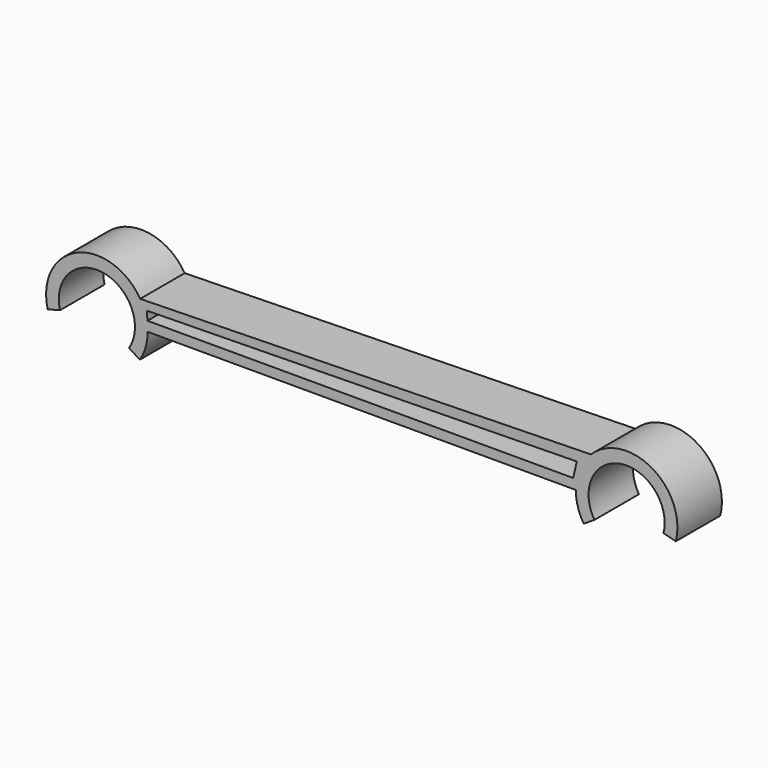
from build123d import *

# Parameters (mm, degrees)
F1_DEPTH = 1.9


with BuildPart() as f1:
    # F0 (on Front) → F1 (new body)
    with BuildSketch(Plane.XZ):
        with BuildLine():
            ThreePointArc((-1.258524, -0.325757), (0.201208, 1.284335), (1.098604, -0.695032))
            Line((1.098604, -0.695032), (1.466869, -0.928015))
            ThreePointArc((1.466869, -0.928015), (1.667194, -0.483095), (1.735775, 0))
            Line((1.735775, 0), (16.358244, 0))
            ThreePointArc((16.358244, 0), (16.426825, -0.483095), (16.62715, -0.928015))
            Line((16.62715, -0.928015), (16.995415, -0.695032))
            ThreePointArc((16.995415, -0.695032), (17.892811, 1.284335), (19.352543, -0.325757))
            Line((19.352543, -0.325757), (19.774415, -0.434954))
            ThreePointArc((19.774415, -0.434954), (18.960684, 1.503931), (16.875129, 1.235808))
            Line((16.875129, 1.235808), (1.479197, 0.908235))
            ThreePointArc((1.479197, 0.908235), (-0.679087, 1.597422), (-1.680396, -0.434954))
            Line((-1.680396, -0.434954), (-1.258524, -0.325757))
        make_face()
        Polygon((1.727705, 0.330091), (1.704895, 0.626613), (16.394122, 0.866111), (16.268671, 0.330091), align=None, mode=Mode.SUBTRACT)
    extrude(amount=F1_DEPTH)


solid = f1.part
